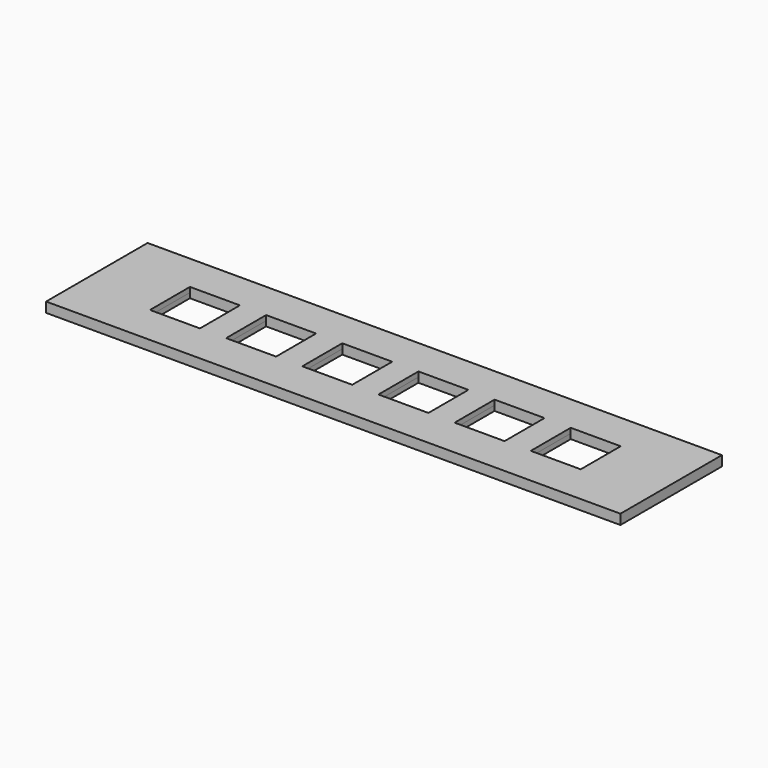
from build123d import *

# Parameters (mm, degrees)
BOX_W            = 115
BOX_H            = 25.4
BOX_DEPTH        = 1
SKETCH_W         = 10
SKETCH_H         = 10
POCKET_DEPTH     = 1.001
POCKET_FACE3_W   = 25.4
POCKET_FACE3_H   = 115
POCKET_FACE3_W_2 = 10
POCKET_FACE3_H_2 = 10
PAD_DEPTH        = 1


with BuildPart() as part:
    # Box → Box (new body)
    with BuildSketch(Plane.XY):
        with Locations((57.5, 12.7)):
            Rectangle(BOX_W, BOX_H)
    extrude(amount=BOX_DEPTH)

    # Sketch (on Face6 of BaseFeature) → Pocket (cut, through all)
    with BuildSketch(Plane.XY.offset(1)):
        with Locations((19.46749, 12.921716)):
            Rectangle(SKETCH_W, SKETCH_H)
        with Locations((34.726053, 12.90977)):
            Rectangle(SKETCH_W, SKETCH_H)
        with Locations((49.984616, 12.897824)):
            Rectangle(SKETCH_W, SKETCH_H)
        with Locations((65.243179, 12.885878)):
            Rectangle(SKETCH_W, SKETCH_H)
        with Locations((80.501742, 12.873932)):
            Rectangle(SKETCH_W, SKETCH_H)
        with Locations((95.760305, 12.861986)):
            Rectangle(SKETCH_W, SKETCH_H)
    extrude(amount=-POCKET_DEPTH, mode=Mode.SUBTRACT)

    # Pocket Face3 → Pad (add)
    with BuildSketch(Plane(origin=(57.470556, 12.650405, 1), x_dir=(0, 1, 0), z_dir=(0, 0, 1))):
        with Locations((0.049595, -0.029444)):
            Rectangle(POCKET_FACE3_W, POCKET_FACE3_H)
        with Locations((0.247419, 7.485941)):
            Rectangle(POCKET_FACE3_W_2, POCKET_FACE3_H_2, mode=Mode.SUBTRACT)
        with Locations((0.235473, -7.772622)):
            Rectangle(POCKET_FACE3_W_2, POCKET_FACE3_H_2, mode=Mode.SUBTRACT)
        with Locations((0.223527, -23.031185)):
            Rectangle(POCKET_FACE3_W_2, POCKET_FACE3_H_2, mode=Mode.SUBTRACT)
        with Locations((0.271311, 38.003067)):
            Rectangle(POCKET_FACE3_W_2, POCKET_FACE3_H_2, mode=Mode.SUBTRACT)
        with Locations((0.259365, 22.744504)):
            Rectangle(POCKET_FACE3_W_2, POCKET_FACE3_H_2, mode=Mode.SUBTRACT)
        with Locations((0.211581, -38.289748)):
            Rectangle(POCKET_FACE3_W_2, POCKET_FACE3_H_2, mode=Mode.SUBTRACT)
    extrude(amount=PAD_DEPTH)


solid = part.part
